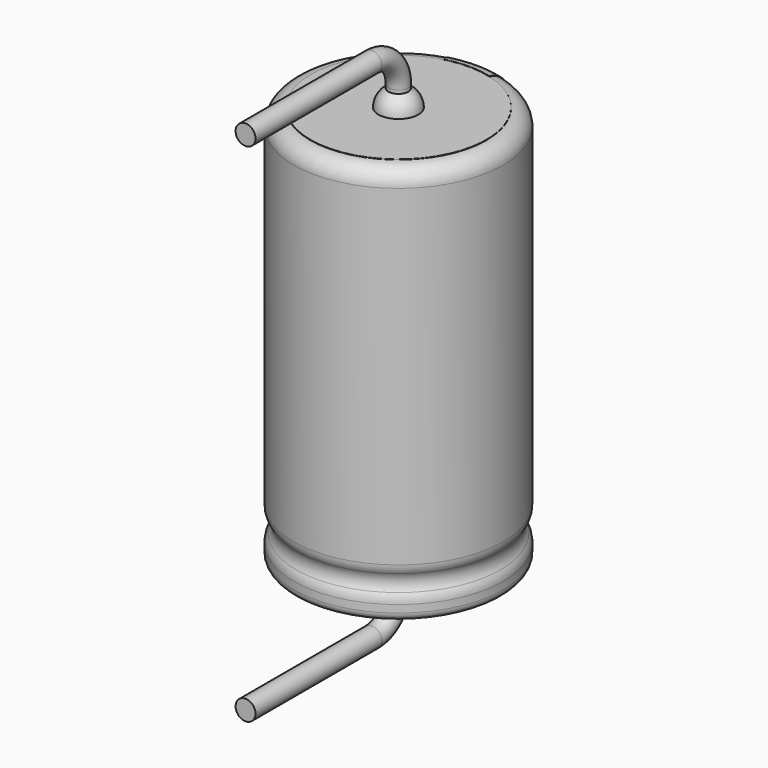
from build123d import *

# Parameters (mm, degrees)
SKETCH011_R             = 0.3
BODY007_PLACEMENT_ANGLE = 180
REVOLUTION001_ANGLE     = -30
POCKET_DEPTH            = 3.161
LINEARPATTERN_COUNT     = 3
LINEARPATTERN_PITCH     = 3.5
SKETCH012_R             = 2.65
PAD_DEPTH               = 0.01
BODY008_PLACEMENT_ANGLE = 90


with BuildPart() as lead:
    # AdditivePipe: sweep along a path in Sketch010
    with BuildLine(Plane(origin=(0, 0, 0), x_dir=(0, -1, 0), z_dir=(-1, 0, 0))) as additivepipe_path:
        Line((0, 12), (0, 12.62))
        ThreePointArc((0, 12.62), (0.292893, 13.327107), (1, 13.62))
        Line((1, 13.62), (5.75, 13.62))
    # Sketch011 → AdditivePipe (sweep)
    with BuildSketch(Plane.XY.offset(12)):
        Circle(SKETCH011_R)
    sweep(path=additivepipe_path.line)


with BuildPart() as obj1:
    # Body007 base: copy of Lead
    add(lead.part)


with BuildPart() as obj1_1:
    # Body007 placement: moved
    add(obj1.part.moved(Location((0, 0, 12))).rotate(Axis((0, 0, 12), (0, 1, 0)), BODY007_PLACEMENT_ANGLE))


with BuildPart() as polaritymarking:
    # Sketch005 → Revolution001 (revolve)
    with BuildSketch(Plane(origin=(0, 0, 0), x_dir=(-0.258819, 0.965926, 0), z_dir=(0.965926, 0.258819, 0))):
        with BuildLine():
            Line((2.66, 0.043526), (2.66, 12.01))
            ThreePointArc((2.66, 12.01), (3.013553, 11.863553), (3.16, 11.51))
            Line((3.16, 11.51), (3.16, 1.523941))
            ThreePointArc((3.16, 1.523941), (3.139134, 1.381006), (3.078278, 1.25))
            ThreePointArc((3.078278, 1.25), (3.003698, 1), (3.078278, 0.75))
            ThreePointArc((3.078278, 0.75), (3.139134, 0.618994), (3.16, 0.476059))
            Line((3.16, 0.476059), (3.16, 0.043526))
            ThreePointArc((3.16, 0.043526), (2.91, -0.206474), (2.66, 0.043526))
        make_face()
    revolve(axis=Axis((0, 0, 0), (0, 0, 1)), revolution_arc=REVOLUTION001_ANGLE)

    # Sketch013 → Pocket (cut, through all)
    with BuildSketch(Plane.XZ):
        Polygon((0.375, 2), (-0.375, 2), (-0.375, 3), (0, 3.5), (0.375, 3), align=None)
    pocket = extrude(amount=-POCKET_DEPTH, mode=Mode.SUBTRACT)

    # LinearPattern: Pocket ×3
    with Locations(*[(0, 0, i * LINEARPATTERN_PITCH) for i in range(1, LINEARPATTERN_COUNT)]):
        add(pocket, mode=Mode.SUBTRACT)


with BuildPart() as housing:
    # Sketch → Revolution (revolve)
    with BuildSketch(Plane.XZ):
        with BuildLine():
            Line((0, 12), (2.65, 12))
            ThreePointArc((3.15, 11.5), (3.003553, 11.853553), (2.65, 12))
            Line((3.15, 11.5), (3.15, 1.523941))
            ThreePointArc((3.068278, 1.25), (3.129134, 1.381006), (3.15, 1.523941))
            ThreePointArc((3.068278, 1.25), (2.993698, 1), (3.068278, 0.75))
            ThreePointArc((3.15, 0.476059), (3.129134, 0.618994), (3.068278, 0.75))
            Line((3.15, 0.476059), (3.15, 0.25))
            ThreePointArc((2.9, 0), (3.076777, 0.073223), (3.15, 0.25))
            Line((0, 0), (2.9, 0))
            Line((0, 12), (0, 0))
        make_face()
    revolve(axis=Axis((0, 0, 0), (0, 0, 1)))


with BuildPart() as fusion:
    # Sphere → Sphere (revolve)
    with BuildSketch(Plane.XZ):
        with BuildLine():
            ThreePointArc((0, -0.6), (0.6, 0), (0, 0.6))
            Line((0, 0.6), (0, -0.6))
        make_face()
    revolve(axis=Axis((0, 0, 0), (0, 0, 1)))

    # Sketch012 (on ShapeBinder) → Pad (new body)
    with BuildSketch(Plane(origin=(0, 0, 0), x_dir=(0, -1, 0), z_dir=(0, 0, 1))):
        Circle(SKETCH012_R)
    extrude(amount=PAD_DEPTH)


with BuildPart() as fusion_1:
    # Body008 placement: moved
    add(fusion.part.moved(Location((0, 0, 12))).rotate(Axis((0, 0, 12), (0, 0, -1)), BODY008_PLACEMENT_ANGLE))

    # Fusion: union obj1, Lead, PolarityMarking, Housing
    add(obj1_1.part)
    add(lead.part)
    add(polaritymarking.part)
    add(housing.part)


solid = fusion_1.part
